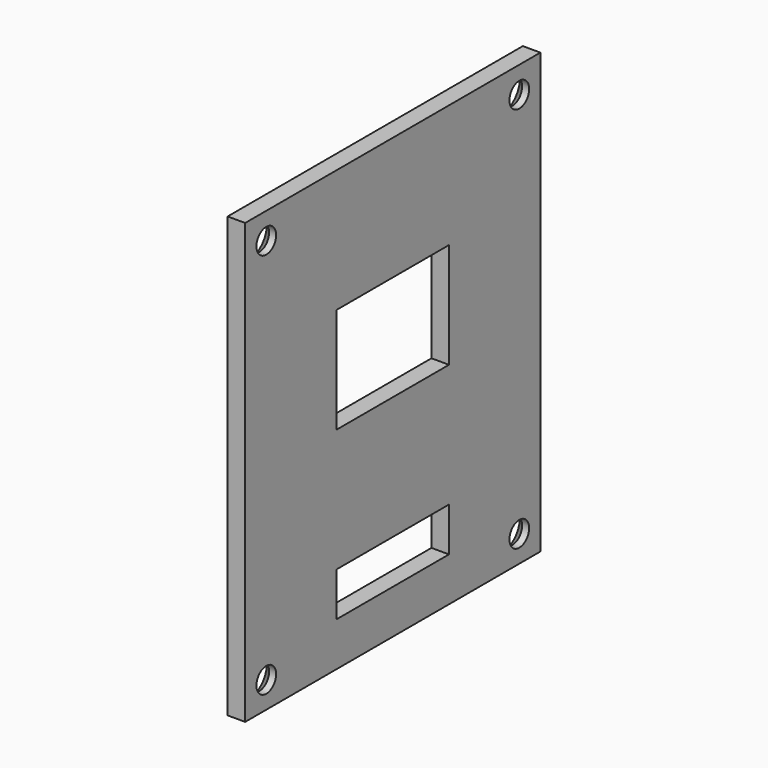
from build123d import *

# Parameters (mm, degrees)
SKETCH_W        = 63.5
SKETCH_H        = 21
PAD_DEPTH       = 25
SKETCH001_W     = 63
SKETCH001_H     = 21
POCKET_DEPTH    = 25
SKETCH006_W     = 8
SKETCH006_H     = 6
SKETCH006_H_2   = 2.5
POCKET004_DEPTH = 5
SKETCH007_R     = 0.7
POCKET005_DEPTH = 5
CHAMFER_SIZE    = 0.6


with BuildPart() as part:
    # Sketch → Pad (new body)
    with BuildSketch(Plane.XY):
        with Locations((31.75, 10.5)):
            Rectangle(SKETCH_W, SKETCH_H)
    extrude(amount=PAD_DEPTH)

    # Sketch001 (on Face6 of Pad) → Pocket (cut)
    with BuildSketch(Plane.XY.offset(25)):
        with Locations((32.5, 10.5)):
            Rectangle(SKETCH001_W, SKETCH001_H)
    extrude(amount=-POCKET_DEPTH, mode=Mode.SUBTRACT)

    # Sketch006 → Pocket004 (cut)
    with BuildSketch(Plane(origin=(0, 0, 0), x_dir=(0, -1, 0), z_dir=(-1, 0, 0))):
        with Locations((-10.5, 15)):
            Rectangle(SKETCH006_W, SKETCH006_H)
        with Locations((-10.5, 3.75)):
            Rectangle(SKETCH006_W, SKETCH006_H_2)
    extrude(amount=-POCKET004_DEPTH, mode=Mode.SUBTRACT)

    # Sketch007 (on Face5 of Pocket004) → Pocket005 (cut)
    with BuildSketch(Plane(origin=(0, 0, 0), x_dir=(0, -1, 0), z_dir=(-1, 0, 0))):
        with Locations((-19.5, 1.5)):
            Circle(SKETCH007_R)
        with Locations((-1.5, 1.5)):
            Circle(SKETCH007_R)
        with Locations((-1.5, 23.5)):
            Circle(SKETCH007_R)
        with Locations((-19.5, 23.5)):
            Circle(SKETCH007_R)
    extrude(amount=-POCKET005_DEPTH, mode=Mode.SUBTRACT)

    # Chamfer
    chamfer_edges = [part.edges().sort_by_distance(p)[0] for p in [
        (0, 2.2, 1.5),
        (0, 20.2, 1.5),
        (0, 20.2, 23.5),
        (0, 2.2, 23.5),
    ]]
    chamfer(chamfer_edges, length=CHAMFER_SIZE)


solid = part.part
